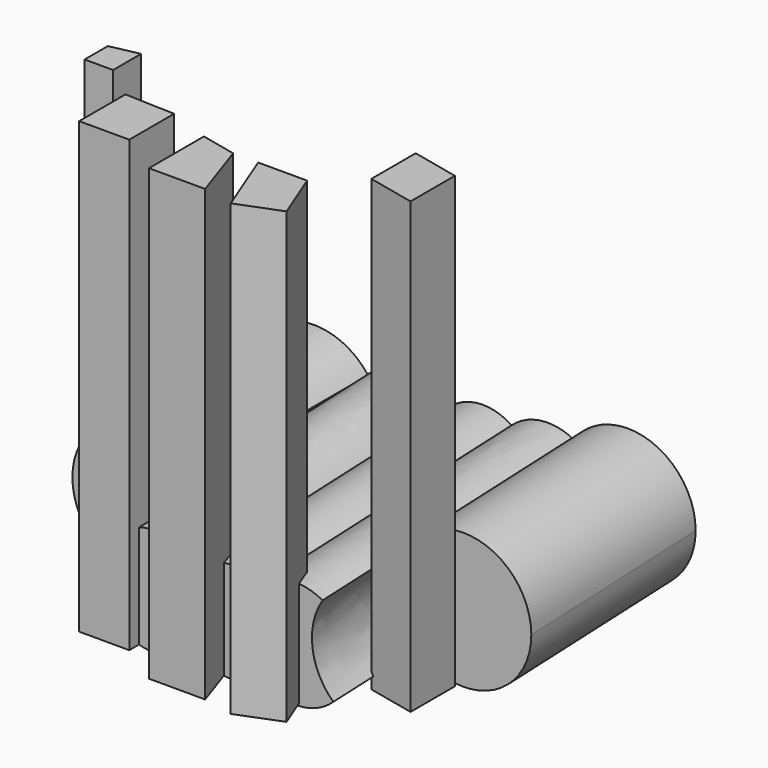
from build123d import *

# Parameters (mm, degrees)
F6_DEPTH = 118.364
F7_DEPTH = 132.588


with BuildPart() as f2:
    # F2: sweep along a path in F1
    with BuildLine(Plane.XY) as f2_path:
        Line((-44.0169908106, 6.7233908921), (-44.0169908106, -57.3797412217))
    # F0 (on Front) → F2 (sweep)
    with BuildSketch(Plane.XZ):
        with BuildLine():
            ThreePointArc((-32.8950643292, 3.0960998597), (-38.4865410432, 15.2031891048), (-32.8950643292, 27.3102783499))
            ThreePointArc((-32.8950643292, 27.3102783499), (-68.8436324224, 15.2031891048), (-32.8950643292, 3.0960998597))
        make_face()
    sweep(path=f2_path.line)

    # F3: sweep along a path in F1
    with BuildLine(Plane.XY) as f3_path:
        Line((-30.7416990399, 8.4258504212), (-26.2174941599, -90.1224240661))
    # F0 (on Front) → F3 (sweep)
    with BuildSketch(Plane.XZ):
        with BuildLine():
            ThreePointArc((-10.8082092625, 4.5136918076), (-14.839667369, 15.0264768841), (-10.3328398225, 25.3444132084))
            ThreePointArc((-10.3328398225, 25.3444132084), (-21.2027686929, 31.0464954324), (-32.8950643292, 27.3102783499))
            ThreePointArc((-32.8950643292, 27.3102783499), (-29.8642864569, 21.590831794), (-28.8175275103, 15.2031891048))
            ThreePointArc((-28.8175275103, 15.2031891048), (-29.8642864569, 8.8155464156), (-32.8950643292, 3.0960998597))
            ThreePointArc((-32.8950643292, 3.0960998597), (-21.5645875614, -0.6674876665), (-10.8082092625, 4.5136918076))
        make_face()
        with BuildLine():
            ThreePointArc((9.0722310211, 2.939421188), (3.2996434316, 14.7764078694), (8.4288314725, 26.9060596045))
            ThreePointArc((8.4288314725, 26.9060596045), (-1.2312582246, 29.480203767), (-10.3328398225, 25.3444132084))
            ThreePointArc((-10.3328398225, 25.3444132084), (-7.6209621654, 20.5927290744), (-6.6798769131, 15.2031891048))
            ThreePointArc((-6.6798769131, 15.2031891048), (-7.7478171513, 9.4736934801), (-10.8082092625, 4.5136918076))
            ThreePointArc((-10.8082092625, 4.5136918076), (-1.1717453263, -0.1093831623), (9.0722310211, 2.939421188))
        make_face()
        with BuildLine():
            ThreePointArc((8.4288314725, 26.9060596045), (13.1423748313, 21.5877105703), (14.8435309635, 14.687826857))
            ThreePointArc((14.8435309635, 14.687826857), (13.32280664, 8.1431164205), (9.0722310211, 2.939421188))
            ThreePointArc((9.0722310211, 2.939421188), (19.7748741488, -0.6896494936), (30.185829373, 3.7067962586))
            ThreePointArc((30.185829373, 3.7067962586), (24.0352744748, 15.8074690973), (27.0205055983, 29.0492213924))
            ThreePointArc((27.0205055983, 29.0492213924), (17.3760462138, 31.001897758), (8.4288314725, 26.9060596045))
        make_face()
    sweep(path=f3_path.line)

    # F4: sweep along a path in F1
    with BuildLine(Plane.XY) as f4_path:
        Line((32.6707735658, 6.9026499987), (35.6218826498, -57.3797412217))
    # F0 (on Front) → F4 (sweep)
    with BuildSketch(Plane.XZ):
        with BuildLine():
            ThreePointArc((63.9070751592, 18.2878697524), (49.4990064529, 37.5000124172), (27.0205055983, 29.0492213924))
            ThreePointArc((27.0205055983, 29.0492213924), (32.9328191777, 23.2188021856), (35.1005799875, 15.2031891048))
            ThreePointArc((35.1005799875, 15.2031891048), (33.8203637071, 8.9517528283), (30.185829373, 3.7067962586))
            ThreePointArc((30.185829373, 3.7067962586), (51.8369276005, -0.0814669368), (63.9070751592, 18.2878697524))
        make_face()
    sweep(path=f4_path.line)


with BuildPart() as f6:
    # F5 (on Top) → F6 (new body)
    with BuildSketch(Plane.XY):
        Polygon((-47.5386753678, -58.658786118), (-55.944185704, -60.4253858328), (-55.944185704, -68.9952373505), (-47.5386753678, -68.9952373505), align=None)
    extrude(amount=F6_DEPTH)


with BuildPart() as f7:
    # F5 (on Top) → F7 (new body)
    with BuildSketch(Plane.XY):
        Polygon((-47.5386753678, -58.658786118), (-55.944185704, -60.4253858328), (-55.944185704, -68.9952373505), (-47.5386753678, -68.9952373505), align=None)
    extrude(amount=F7_DEPTH)


with BuildPart() as f7b:
    # F5 (on Top) → F7, piece 2 (new body)
    with BuildSketch(Plane.XY):
        Polygon((-22.9295529425, -77.2556439042), (-37.7050116658, -76.7068341374), (-37.7050116658, -93.7900543213), (-22.9295529425, -93.7900543213), align=None)
    extrude(amount=F7_DEPTH)


with BuildPart() as f7c:
    # F5 (on Top) → F7, piece 3 (new body)
    with BuildSketch(Plane.XY):
        Polygon((0, -84.1523632407), (-10.4915397242, -81.8082764745), (-10.4915397242, -102.0687669516), (6.0791820288, -102.0687669516), align=None)
    extrude(amount=F7_DEPTH)


with BuildPart() as f7d:
    # F5 (on Top) → F7, piece 4 (new body)
    with BuildSketch(Plane.XY):
        Polygon((21.8410599335, -84.1523632407), (7.3752552271, -84.1523632407), (15.1729341596, -104.0177494287), (27.707461557, -99.0976225663), align=None)
    extrude(amount=F7_DEPTH)


with BuildPart() as f7e:
    # F5 (on Top) → F7, piece 5 (new body)
    with BuildSketch(Plane.XY):
        Polygon((46.8978509307, -77.3646011949), (46.8978509307, -61.0133817398), (32.8267207991, -57.8695200384), (32.8267207991, -74.2207394935), align=None)
    extrude(amount=F7_DEPTH)


solid = Compound([f2.part, f6.part, f7.part, f7b.part, f7c.part, f7d.part, f7e.part])
